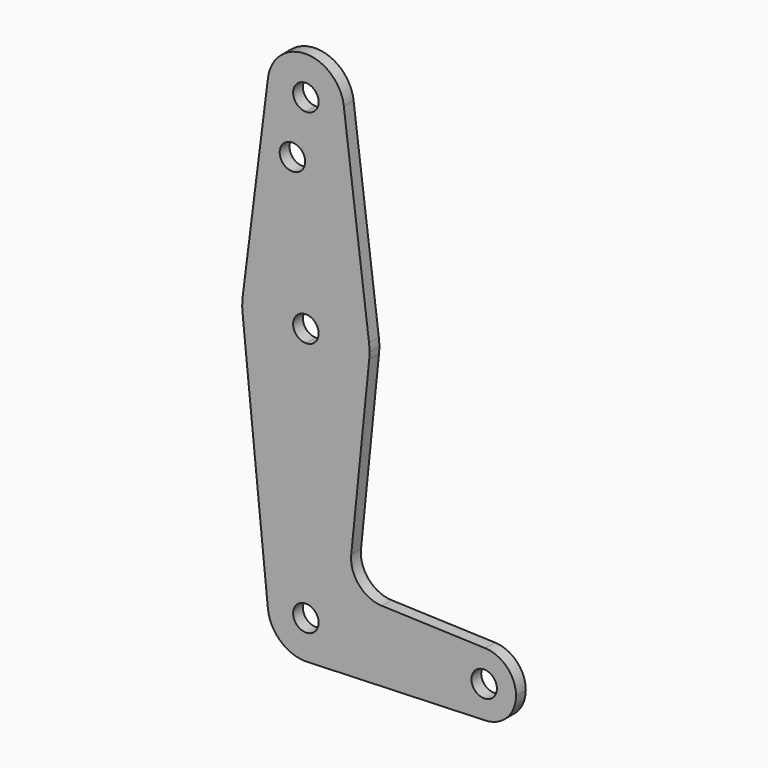
from build123d import *

# Parameters (mm, degrees)
F0_R     = 3.175
F1_DEPTH = 3.048


with BuildPart() as f1:
    # F0 (on Front) → F1 (new body)
    with BuildSketch(Plane.XZ):
        with BuildLine():
            ThreePointArc((-24.0536623537, 11.0324343508), (-34.7029360965, 15.1342192525), (-39.8490879178, 25.3199343508))
            Line((-39.8490879178, 25.3199343508), (-33.5309176921, -37.5450656492))
            ThreePointArc((-33.5309176921, -37.5450656492), (-31.1175914127, -30.2030014035), (-24.0536623537, -27.0675656492))
            Line((-24.0536623537, -27.0675656492), (-24.0536623537, 11.0324343508))
        make_face()
        with BuildLine():
            ThreePointArc((-24.0536623537, -27.0675656492), (-31.1175914127, -30.2030014035), (-33.5309176921, -37.5450656492))
            ThreePointArc((-33.5309176921, -37.5450656492), (-30.5332550624, -43.5740055672), (-24.297846874, -46.1144351568))
            Line((-24.297846874, -46.1144351568), (-23.1379536166, -46.0734465423))
            ThreePointArc((-23.1379536166, -46.0734465423), (-17.0021465336, -42.9958265091), (-14.5286623537, -36.5925656492))
            Line((-14.5286623537, -36.5925656492), (-20.8786623537, -36.5925656492))
            ThreePointArc((-20.8786623537, -36.5925656492), (-26.298726384, -38.8376296795), (-24.0536623537, -33.4175656492))
            Line((-24.0536623537, -33.4175656492), (-24.0536623537, -27.0675656492))
        make_face()
        with BuildLine():
            ThreePointArc((-14.5286623537, -36.5925656492), (-17.3184702629, -29.8573735584), (-24.0536623537, -27.0675656492))
            Line((-24.0536623537, -27.0675656492), (-24.0536623537, -33.4175656492))
            ThreePointArc((-24.0536623537, -33.4175656492), (-21.8085983234, -34.3475016189), (-20.8786623537, -36.5925656492))
            Line((-20.8786623537, -36.5925656492), (-14.5286623537, -36.5925656492))
        make_face()
        with BuildLine():
            Line((12.4588376463, -36.5925656492), (-14.5286623537, -36.5925656492))
            ThreePointArc((-14.5286623537, -36.5925656492), (-17.0021465336, -42.9958265091), (-23.1379536166, -46.0734465423))
            Line((-23.1379536166, -46.0734465423), (20.6766601417, -44.5251141394))
            ThreePointArc((20.6766601417, -44.5251141394), (14.8836773791, -42.3034747738), (12.4588376463, -36.5925656492))
        make_face()
        with BuildLine():
            ThreePointArc((-8.2594595501, 25.3078147713), (-13.4089062697, 15.1301344517), (-24.0536623537, 11.0324343508))
            Line((-24.0536623537, 11.0324343508), (-24.0536623537, -27.0675656492))
            ThreePointArc((-24.0536623537, -27.0675656492), (-17.3184702629, -29.8573735584), (-14.5286623537, -36.5925656492))
            Line((-14.5286623537, -36.5925656492), (12.4588376463, -36.5925656492))
            ThreePointArc((12.4588376463, -36.5925656492), (14.8844271616, -30.8809328653), (20.6787429209, -28.6600910346))
            Line((20.6787429209, -28.6600910346), (-5.119559566, -27.7416416162))
            ThreePointArc((-5.119559566, -27.7416416162), (-10.8286885423, -25.0215858187), (-12.7464392071, -18.9953855568))
            Line((-12.7464392071, -18.9953855568), (-8.2594595501, 25.3078147713))
        make_face()
        with BuildLine():
            ThreePointArc((20.6787429209, -28.6600910346), (14.8844271616, -30.8809328653), (12.4588376463, -36.5925656492))
            ThreePointArc((12.4588376463, -36.5925656492), (14.8836773791, -42.3034747738), (20.6766601417, -44.5251141394))
            ThreePointArc((20.6766601417, -44.5251141394), (26.1072467708, -42.1052259164), (28.3338376463, -36.5925656492))
            ThreePointArc((28.3338376463, -36.5925656492), (26.1079704302, -31.0806551645), (20.6787429209, -28.6600910346))
        make_face()
        with BuildLine():
            ThreePointArc((23.5713376463, -36.5925656492), (20.3963376463, -39.7675656492), (17.2213376463, -36.5925656492))
            ThreePointArc((17.2213376463, -36.5925656492), (20.3963376463, -33.4175656492), (23.5713376463, -36.5925656492))
        make_face(mode=Mode.SUBTRACT)
        with BuildLine():
            ThreePointArc((-8.30317408, 28.8918093508), (-13.5533368379, 38.8136843508), (-24.0536623537, 42.7824343508))
            Line((-24.0536623537, 42.7824343508), (-24.0536623537, 30.0824343508))
            ThreePointArc((-24.0536623537, 30.0824343508), (-21.8085983234, 29.1524983811), (-20.8786623537, 26.9074343508))
            ThreePointArc((-20.8786623537, 26.9074343508), (-21.8085983234, 24.6623703205), (-24.0536623537, 23.7324343508))
            Line((-24.0536623537, 23.7324343508), (-24.0536623537, 11.0324343508))
            ThreePointArc((-24.0536623537, 11.0324343508), (-13.4089062697, 15.1301344517), (-8.2594595501, 25.3078147713))
            ThreePointArc((-8.2594595501, 25.3078147713), (-8.1988745199, 26.1066049392), (-8.1786623537, 26.9074343508))
            ThreePointArc((-8.1786623537, 26.9074343508), (-8.2098208633, 27.9015730874), (-8.30317408, 28.8918093508))
        make_face()
        with BuildLine():
            Line((-24.0536623537, 30.0824343508), (-24.0536623537, 42.7824343508))
            ThreePointArc((-24.0536623537, 42.7824343508), (-34.5539878695, 38.8136843508), (-39.8041506274, 28.8918093508))
            ThreePointArc((-39.8041506274, 28.8918093508), (-39.9274061692, 27.1071398375), (-39.8490879178, 25.3199343508))
            ThreePointArc((-39.8490879178, 25.3199343508), (-34.7029360965, 15.1342192525), (-24.0536623537, 11.0324343508))
            Line((-24.0536623537, 11.0324343508), (-24.0536623537, 23.7324343508))
            ThreePointArc((-24.0536623537, 23.7324343508), (-27.2286623537, 26.9074343508), (-24.0536623537, 30.0824343508))
        make_face()
        with BuildLine():
            Line((-24.0536623537, 42.7824343508), (-24.0536623537, 68.1824343508))
            ThreePointArc((-24.0536623537, 68.1824343508), (-31.1974123537, 71.4072390413), (-33.5039553179, 78.8980593508))
            Line((-33.5039553179, 78.8980593508), (-39.8041506274, 28.8918093508))
            ThreePointArc((-39.8041506274, 28.8918093508), (-34.5539878695, 38.8136843508), (-24.0536623537, 42.7824343508))
        make_face()
        with Locations((-27.4067688733, 63.5115653276)):
            Circle(F0_R, mode=Mode.SUBTRACT)
        with BuildLine():
            ThreePointArc((-14.5286623537, 77.7074343508), (-17.3184702629, 70.97224226), (-24.0536623537, 68.1824343508))
            Line((-24.0536623537, 68.1824343508), (-24.0536623537, 42.7824343508))
            ThreePointArc((-24.0536623537, 42.7824343508), (-13.5533368379, 38.8136843508), (-8.30317408, 28.8918093508))
            Line((-8.30317408, 28.8918093508), (-14.6033693895, 78.8980593508))
            ThreePointArc((-14.6033693895, 78.8980593508), (-14.5473574595, 78.3039175928), (-14.5286623537, 77.7074343508))
        make_face()
        with BuildLine():
            ThreePointArc((-33.5039553179, 78.8980593508), (-31.1974123537, 71.4072390413), (-24.0536623537, 68.1824343508))
            ThreePointArc((-24.0536623537, 68.1824343508), (-17.3184702629, 70.97224226), (-14.5286623537, 77.7074343508))
            ThreePointArc((-14.5286623537, 77.7074343508), (-14.5473574595, 78.3039175928), (-14.6033693895, 78.8980593508))
            ThreePointArc((-14.6033693895, 78.8980593508), (-24.0536623537, 87.2324343508), (-33.5039553179, 78.8980593508))
        make_face()
        with BuildLine():
            ThreePointArc((-20.8786623537, 77.7074343508), (-21.8085983234, 75.4623703205), (-24.0536623537, 74.5324343508))
            ThreePointArc((-24.0536623537, 74.5324343508), (-26.298726384, 79.9524983811), (-20.8786623537, 77.7074343508))
        make_face(mode=Mode.SUBTRACT)
    extrude(amount=F1_DEPTH)


solid = f1.part
